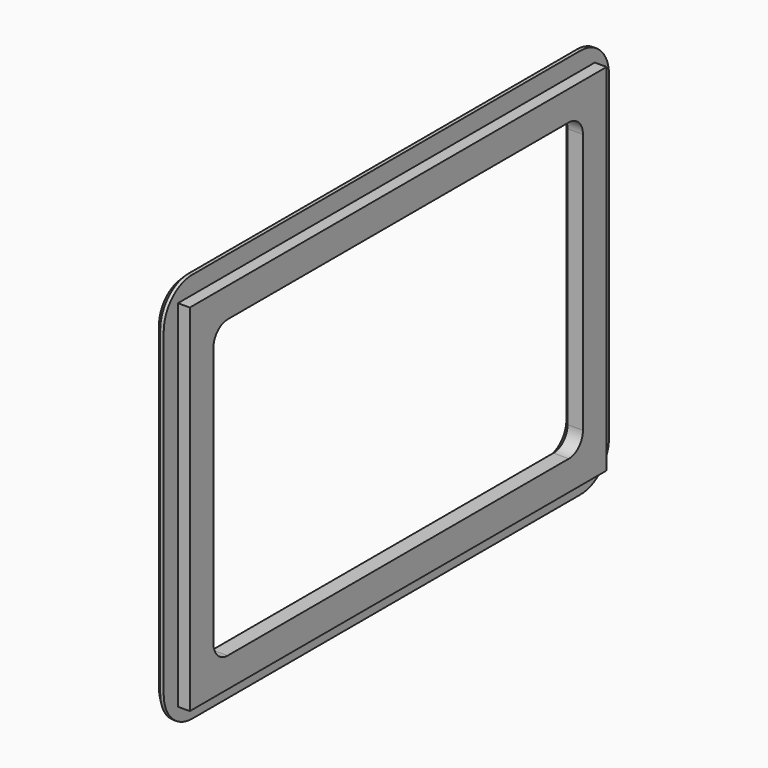
from build123d import *

# Parameters (mm, degrees)
SKETCH_W     = 440
SKETCH_H     = 300
PAD_DEPTH    = 10
PAD001_DEPTH = 8
CHAMFER_SIZE = 5


with BuildPart() as part:
    # Sketch → Pad (new body)
    with BuildSketch(Plane.YZ):
        Rectangle(SKETCH_W, SKETCH_H)
        with BuildLine():
            Line((-195, 110), (-195, -110))
            ThreePointArc((-195, -110), (-190.606602, -120.606602), (-180, -125))
            Line((-180, -125), (180, -125))
            ThreePointArc((180, -125), (190.606602, -120.606602), (195, -110))
            Line((195, -110), (195, 110))
            ThreePointArc((195, 110), (190.606602, 120.606602), (180, 125))
            Line((180, 125), (-180, 125))
            ThreePointArc((-180, 125), (-190.606602, 120.606602), (-195, 110))
        make_face(mode=Mode.SUBTRACT)
    extrude(amount=PAD_DEPTH)

    # Sketch001 (on Face13 of Pad) → Pad001 (join)
    with BuildSketch(Plane(origin=(0, 0, 0), x_dir=(0, 1, 0), z_dir=(-1, 0, 0))):
        with BuildLine():
            Line((-235, 135), (-235, -135))
            ThreePointArc((-235, -135), (-226.213203, -156.213203), (-205, -165))
            Line((-205, -165), (205, -165))
            ThreePointArc((205, -165), (226.213203, -156.213203), (235, -135))
            Line((235, -135), (235, 135))
            ThreePointArc((235, 135), (226.213203, 156.213203), (205, 165))
            Line((205, 165), (-205, 165))
            ThreePointArc((-205, 165), (-226.213203, 156.213203), (-235, 135))
        make_face()
        with BuildLine():
            Line((-195, 110), (-195, -110))
            ThreePointArc((-195, -110), (-190.606602, -120.606602), (-180, -125))
            Line((-180, -125), (180, -125))
            ThreePointArc((180, -125), (190.606602, -120.606602), (195, -110))
            Line((195, -110), (195, 110))
            ThreePointArc((195, 110), (190.606602, 120.606602), (180, 125))
            Line((180, 125), (-180, 125))
            ThreePointArc((-180, 125), (-190.606602, 120.606602), (-195, 110))
        make_face(mode=Mode.SUBTRACT)
    extrude(amount=PAD001_DEPTH)

    # Chamfer
    chamfer_edges = [part.edges().sort_by_distance(p)[0] for p in [
        (-8, -235, 0),
        (-8, -226.213203, 156.213203),
        (-8, 0, 165),
        (-8, 226.213203, 156.213203),
        (-8, 235, 0),
        (-8, 226.213203, -156.213203),
        (-8, 0, -165),
        (-8, -226.213203, -156.213203),
        (-8, -195, 0),
        (-8, -190.606602, 120.606602),
        (-8, 0, 125),
        (-8, 190.606602, 120.606602),
        (-8, 195, 0),
        (-8, 190.606602, -120.606602),
        (-8, 0, -125),
        (-8, -190.606602, -120.606602),
    ]]
    chamfer(chamfer_edges, length=CHAMFER_SIZE)


solid = part.part
